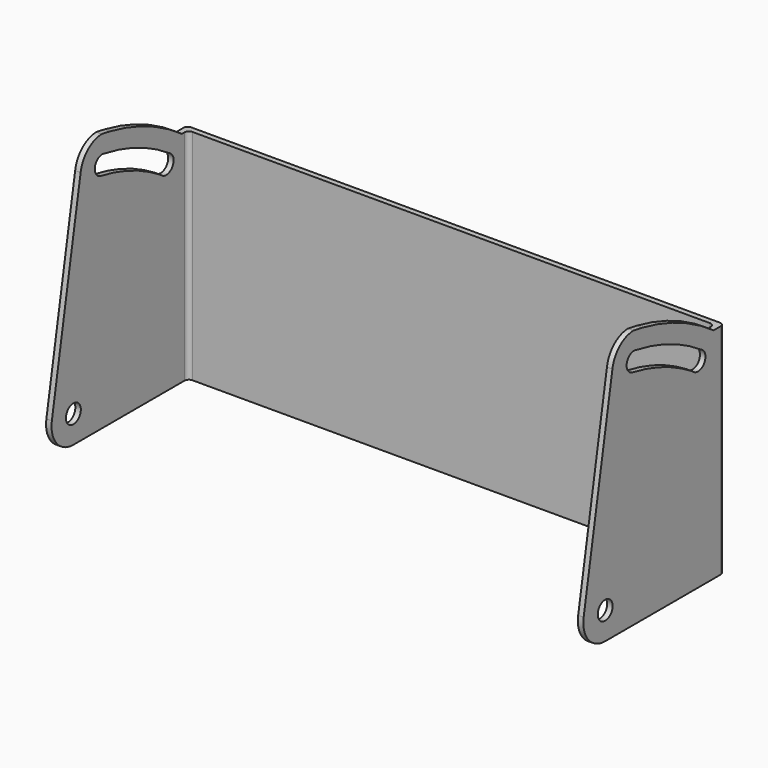
from build123d import *

# Parameters (mm, degrees)
F0_W     = 122.301
F0_H     = 50.8
F1_DEPTH = 1.27
F2_W     = 1.27
F2_H     = 50.8
F2_R     = 2.159
F3_DEPTH = 1.27
F5_R     = 1.016


with BuildPart() as f1:
    # F0 (on Front) → F1 (new body)
    with BuildSketch(Plane.XZ):
        Rectangle(F0_W, F0_H)
    extrude(amount=F1_DEPTH)

    # F2 (on face) → F3 (join)
    with BuildSketch(Plane.YZ.offset(61.1505)):
        with Locations((-0.635, 0)):
            Rectangle(F2_W, F2_H)
        with BuildLine():
            Line((-34.5694, -25.4), (-1.27, -25.4))
            Line((-1.27, -25.4), (-1.27, 25.4))
            Line((-1.27, 25.4), (-3.048, 25.4))
            ThreePointArc((-3.048, 25.4), (-12.9705871442, 30.9789160504), (-23.835727376, 34.3746144578))
            ThreePointArc((-23.835727376, 34.3746144578), (-25.1069267062, 34.6143527598), (-26.3834586647, 34.8238482236))
            ThreePointArc((-26.3834586647, 34.8238482236), (-30.4019207613, 33.2281345448), (-32.4672506211, 29.4296147888))
            Line((-32.4672506211, 29.4296147888), (-40.8229292316, -17.9473340718))
            ThreePointArc((-40.8229292316, -17.9473340718), (-39.4337822138, -23.1317013215), (-34.5694, -25.4))
        make_face()
        with Locations((-34.5694, -19.05)):
            Circle(F2_R, mode=Mode.SUBTRACT)
        with BuildLine():
            ThreePointArc((-26.4055731828, 26.3286980436), (-28.291565828, 28.9678233876), (-25.4317316722, 30.4986073176))
            ThreePointArc((-25.4317316722, 30.4986073176), (-15.6793239493, 27.7117353818), (-6.7247772333, 22.9481018219))
            ThreePointArc((-6.7247772333, 22.9481018219), (-5.617517065, 20.1630344292), (-8.3603573385, 18.954956329))
            ThreePointArc((-8.3603573385, 18.954956329), (-8.8006503817, 19.1767894333), (-9.1791381358, 19.4927244109))
            ThreePointArc((-9.1791381358, 19.4927244109), (-17.4611225454, 23.7454080866), (-26.4055731828, 26.3286980436))
        make_face(mode=Mode.SUBTRACT)
    extrude(amount=F3_DEPTH)

    # F4: F1 across plane


with BuildPart() as f1_1:
    add(f1.part)
    add(f1.part.mirror(Plane.YZ))

    # F5
    f5_edges = [f1_1.edges().sort_by_distance(p)[0] for p in [
        (-62.4205, 0, 0),
        (62.4205, 0, 0),
        (61.1505, -1.27, 0),
        (-61.1505, -1.27, 0),
    ]]
    fillet(f5_edges, radius=F5_R)


solid = f1_1.part
